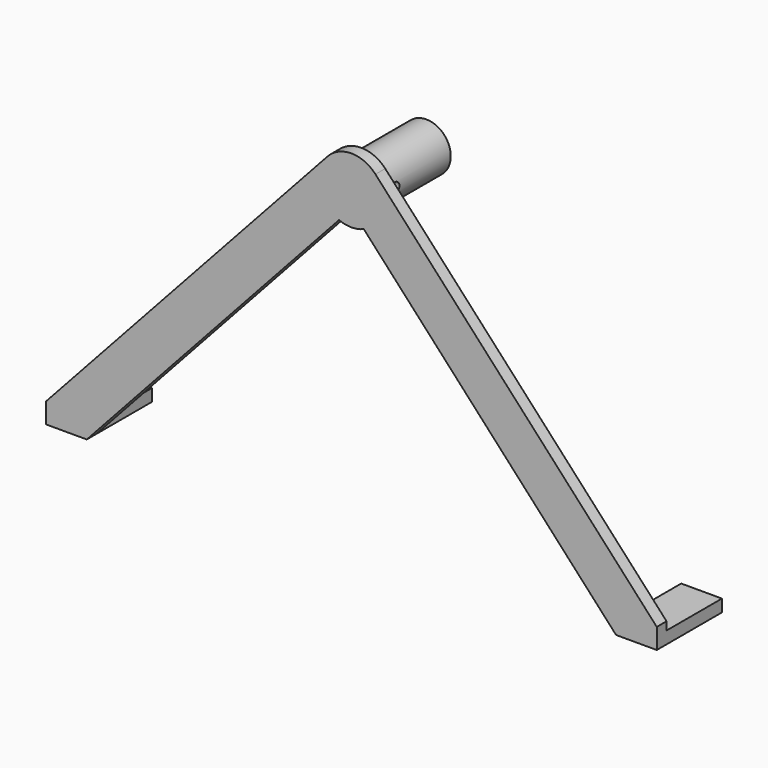
from build123d import *

# Parameters (mm, degrees)
F1_DEPTH = 3
F2_R     = 6
F2_R_2   = 4.5
F3_DEPTH = 20
F4_W     = 10
F4_H     = 3
F5_DEPTH = 17
F6_R     = 1.25
F7_DEPTH = 12.5


with BuildPart() as f1:
    # F0 (on Front) → F1 (new body)
    with BuildSketch(Plane.XZ):
        with BuildLine():
            Line((-75, 5), (-75, 0))
            Line((-75, 0), (-65, 0))
            Line((-65, 0), (-3.0475954437, 67.6032330027))
            ThreePointArc((-3.0475954437, 67.6032330027), (0, 67), (3.0475954437, 67.6032330027))
            Line((3.0475954437, 67.6032330027), (65, 0))
            Line((65, 0), (75, 0))
            Line((75, 0), (75, 5))
            Line((75, 5), (5.8979816495, 80.4049803387))
            ThreePointArc((5.8979816495, 80.4049803387), (0, 83), (-5.8979816495, 80.4049803387))
            Line((-5.8979816495, 80.4049803387), (-75, 5))
        make_face()
    extrude(amount=-F1_DEPTH)

    # F2 (on face) → F3 (join)
    with BuildSketch(Plane(origin=(0, 3, 0), x_dir=(-1, 0, 0), z_dir=(0, 1, 0))):
        with Locations((0, 75)):
            Circle(F2_R)
        with Locations((0, 75)):
            Circle(F2_R_2, mode=Mode.SUBTRACT)
    extrude(amount=F3_DEPTH)

    # F4 (on face) → F5 (join)
    with BuildSketch(Plane(origin=(0, 3, 0), x_dir=(-1, 0, 0), z_dir=(0, 1, 0))):
        with Locations((-70, 1.5)):
            Rectangle(F4_W, F4_H)
        with Locations((70, 1.5)):
            Rectangle(F4_W, F4_H)
    extrude(amount=F5_DEPTH)

    # F6 (on Right) → F7 (cut, symmetric)
    with BuildSketch(Plane.YZ):
        with Locations((6, 75)):
            Circle(F6_R)
    extrude(amount=F7_DEPTH, both=True, mode=Mode.SUBTRACT)


solid = f1.part
